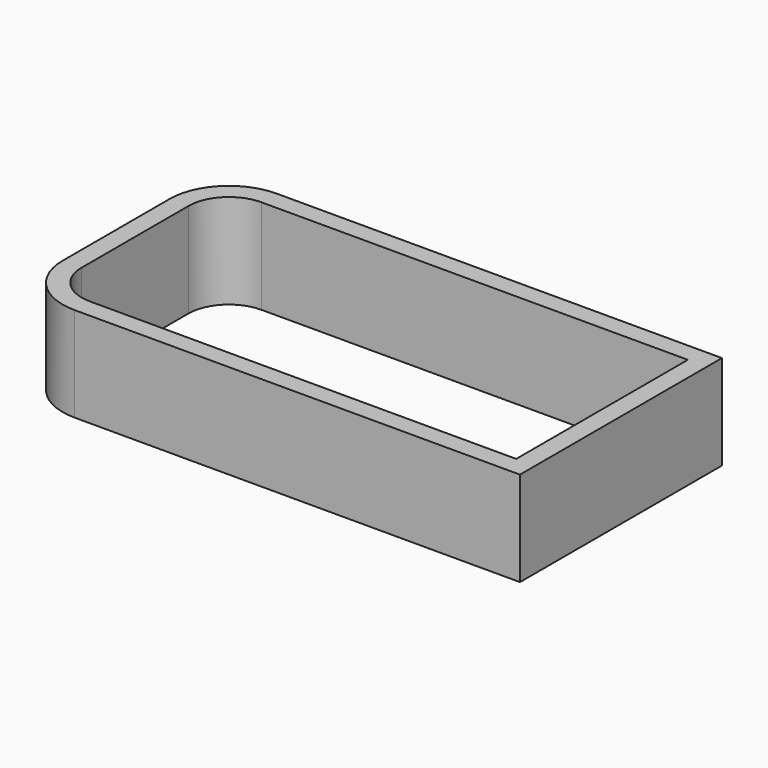
from build123d import *

# Parameters (mm, degrees)
F0_W     = 800
F0_H     = 400
F1_DEPTH = 150
F2_R     = 94.1543289326
F3_T     = -30
F4_DEPTH = 202


with BuildPart() as f1:
    # F0 (on Top) → F1 (new body)
    with BuildSketch(Plane.XY):
        Rectangle(F0_W, F0_H)
    extrude(amount=F1_DEPTH)

    # F2
    f2_edges = [f1.edges().sort_by_distance(p)[0] for p in [
        (-400, 200, 75),
        (-400, -200, 75),
    ]]
    fillet(f2_edges, radius=F2_R)

    # F3
    f3_openings = [f1.faces().sort_by_distance(p)[0] for p in [
        (4.56029, 0, 150),
    ]]
    offset(amount=F3_T, openings=f3_openings)

    # F4 (cut): a face of the model
    f4_faces = [f1.faces().sort_by_distance(p)[0] for p in [
        (2.5148489981, 0, 30),
    ]]
    extrude(f4_faces, amount=-F4_DEPTH, mode=Mode.SUBTRACT)


solid = f1.part
